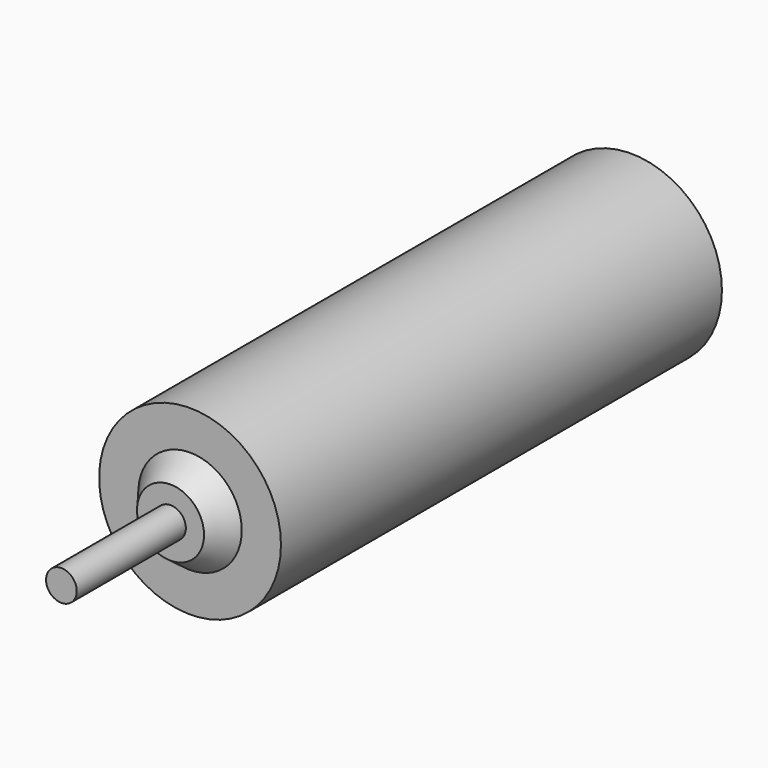
from build123d import *

# Parameters (mm, degrees)
F0_R     = 2.032
F1_DEPTH = 12.319
F2_R     = 0.84455
F3_DEPTH = 0.5461
F4_R     = 1.1557
F6_R     = 0.7493
F8_R     = 0.3429
F9_DEPTH = 3.048


with BuildPart() as f1:
    # F0 (on Front) → F1 (new body)
    with BuildSketch(Plane.XZ):
        Circle(F0_R)
    extrude(amount=-F1_DEPTH)

    # F2 (on face) → F3 (join)
    with BuildSketch(Plane(origin=(0, 12.319, 0), x_dir=(-1, 0, 0), z_dir=(0, 1, 0))):
        Circle(F2_R)
    extrude(amount=F3_DEPTH)

    # F4 (on face) → F7 section 0
    with BuildSketch(Plane.XZ):
        Circle(F4_R)
    # F6 (on offset) → F7 section 1
    with BuildSketch(Plane.XZ.offset(0.5461)):
        Circle(F6_R)
    loft()

    # F8 (on face) → F9 (join)
    with BuildSketch(Plane.XZ.offset(0.5461)):
        Circle(F8_R)
    extrude(amount=F9_DEPTH)


solid = f1.part
